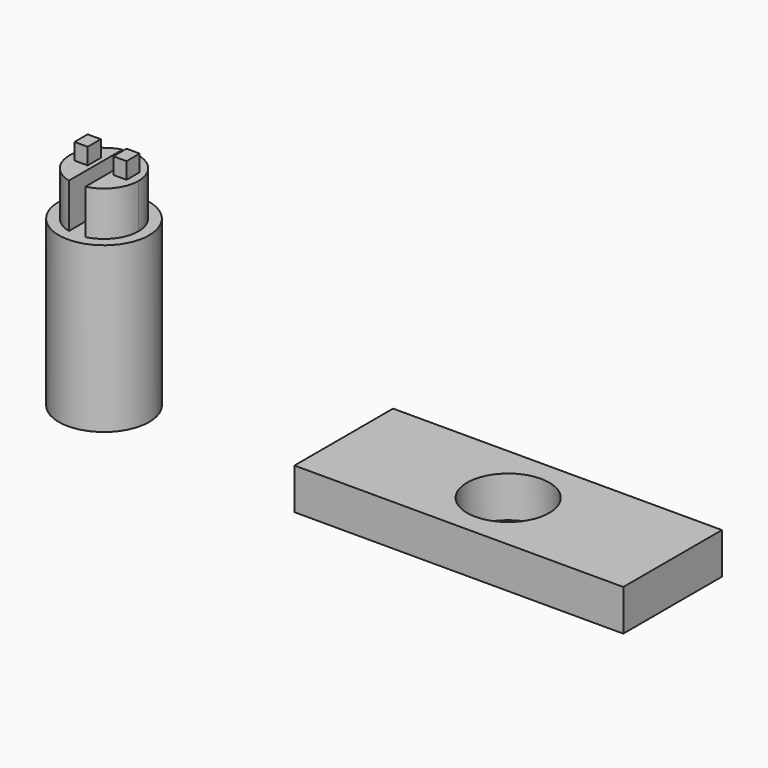
from build123d import *

# Parameters (mm, degrees)
F0_W     = 50.8
F0_H     = 19.05
F1_DEPTH = 6.35
F2_R     = 6.35
F3_DEPTH = 25.4
F4_R     = 6.985
F5_DEPTH = 25.4
F7_DEPTH = 6.858
F8_W     = 2.032
F8_H     = 2.54
F9_DEPTH = 2.54


with BuildPart() as f1:
    # F0 (on Top) → F1 (new body)
    with BuildSketch(Plane.XY):
        with Locations((11.8177033305, 8.0104206771)):
            Rectangle(F0_W, F0_H)
    extrude(amount=F1_DEPTH)

    # F2 (on face) → F3 (cut)
    with BuildSketch(Plane.XY.offset(6.35)):
        with Locations((11.8177033305, 8.0104206771)):
            Circle(F2_R)
    extrude(amount=-F3_DEPTH, mode=Mode.SUBTRACT)


with BuildPart() as f5:
    # F4 (on Top) → F5 (new body)
    with BuildSketch(Plane.XY):
        with Locations((-48.9647500217, 5.9351217933)):
            Circle(F4_R)
    extrude(amount=F5_DEPTH)

    # F6 (on face) → F7 (join)
    with BuildSketch(Plane.XY.offset(25.4)):
        with BuildLine():
            ThreePointArc((-47.6947500217, 0.7545179675), (-44.7679812647, 2.6429055185), (-43.6307500217, 5.9351217933))
            ThreePointArc((-43.6307500217, 5.9351217933), (-44.7679812647, 9.2273380681), (-47.6947500217, 11.1157256191))
            Line((-47.6947500217, 11.1157256191), (-47.6947500217, 5.9351217933))
            Line((-47.6947500217, 5.9351217933), (-47.6947500217, 0.7545179675))
        make_face()
        with BuildLine():
            Line((-50.2347500217, 5.9351217933), (-50.2347500217, 11.1157256191))
            ThreePointArc((-50.2347500217, 11.1157256191), (-54.2987500217, 5.9351217933), (-50.2347500217, 0.7545179675))
            Line((-50.2347500217, 0.7545179675), (-50.2347500217, 5.9351217933))
        make_face()
    extrude(amount=F7_DEPTH)

    # F8 (on face) → F9 (join)
    with BuildSketch(Plane.XY.offset(32.258)):
        with Locations((-45.9452590969, 6.5218828465)):
            Rectangle(F8_W, F8_H)
        with Locations((-51.9555083539, 6.5218828465)):
            Rectangle(F8_W, F8_H)
    extrude(amount=F9_DEPTH)


solid = Compound([f1.part, f5.part])
